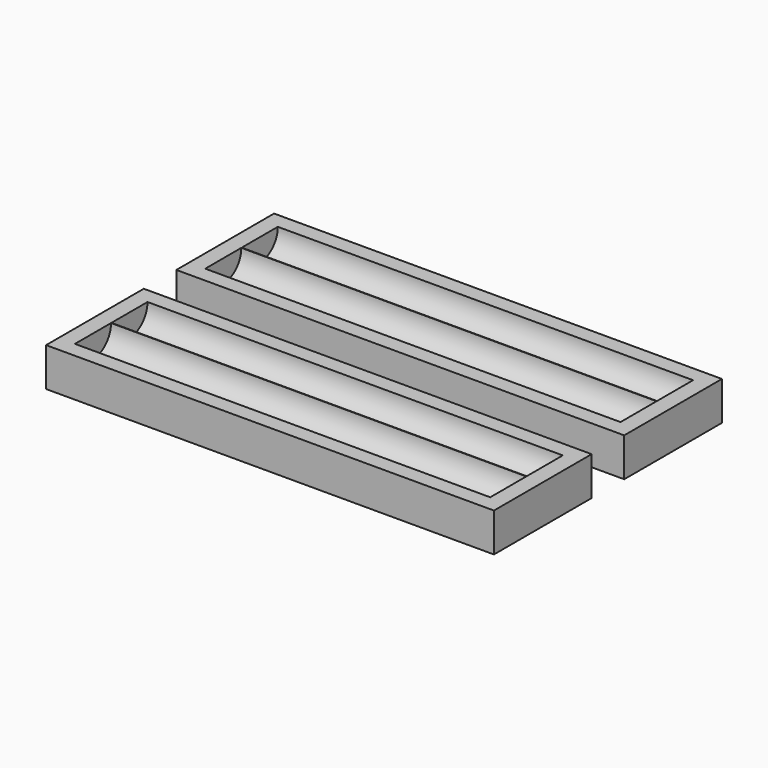
from build123d import *

# Parameters (mm, degrees)
F0_W     = 139.7
F0_H     = 38.1
F1_DEPTH = 12.065
F3_START = -5.08
F2_R     = 7.0358
F3_DEPTH = 129.54


with BuildPart() as f1:
    # F0 (on Top) → F1 (new body)
    with BuildSketch(Plane.XY):
        Rectangle(F0_W, F0_H)
    extrude(amount=F1_DEPTH)

    # F2 (on face) → F3 (cut)
    with BuildSketch(Plane.YZ.offset(69.85).offset(F3_START)):
        with Locations((-7.112, 12.065)):
            Circle(F2_R)
        with Locations((7.112, 12.065)):
            Circle(F2_R)
    extrude(amount=-F3_DEPTH, mode=Mode.SUBTRACT)


with BuildPart() as f4_1:
    # F4: copy of F1
    add(f1.part.moved(Location((0, 50.8, 0))))


solid = Compound([f1.part, f4_1.part])
